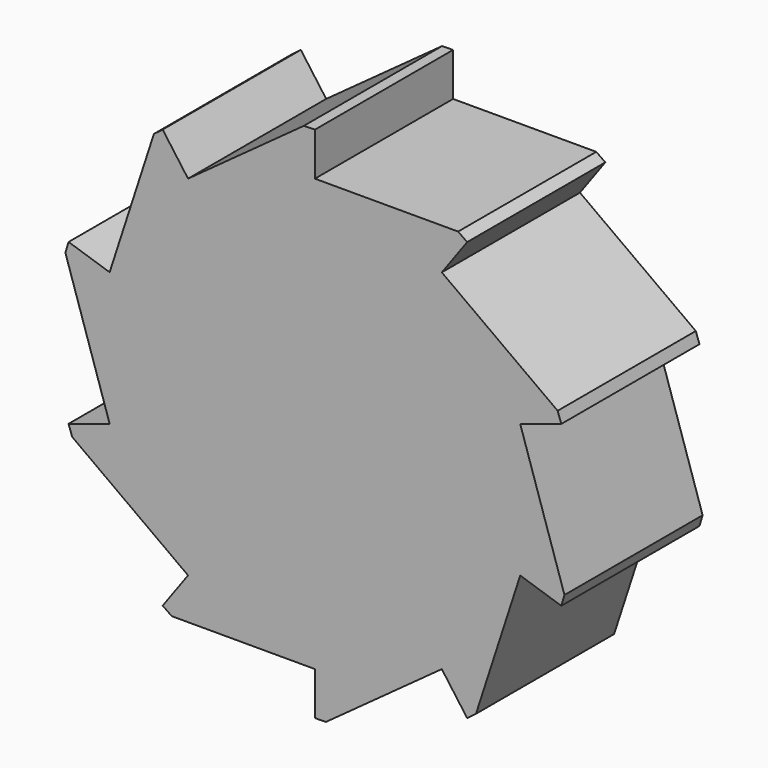
from build123d import *

# Parameters (mm, degrees)
F1_DEPTH = 20


with BuildPart() as f1:
    # F0 (on Front) → F1 (new body)
    with BuildSketch(Plane.XZ):
        Polygon((23.776413, 7.725425), (28.531695, 9.27051), (28.11066, 10.478109), (14.694631, 20.225425), (17.633558, 24.27051), (16.583124, 25), (0, 25), (0, 30), (-1.278602, 29.972741), (-14.694631, 20.225425), (-17.633558, 24.27051), (-18.651946, 23.496913), (-23.776413, 7.725425), (-28.531695, 9.27051), (-28.90088, 8.046063), (-23.776413, -7.725425), (-28.531695, -9.27051), (-28.11066, -10.478109), (-14.694631, -20.225425), (-17.633558, -24.27051), (-16.583124, -25), (0, -25), (0, -30), (1.278602, -29.972741), (14.694631, -20.225425), (17.633558, -24.27051), (18.651946, -23.496913), (23.776413, -7.725425), (28.531695, -9.27051), (28.90088, -8.046063), align=None)
    extrude(amount=F1_DEPTH)


solid = f1.part
